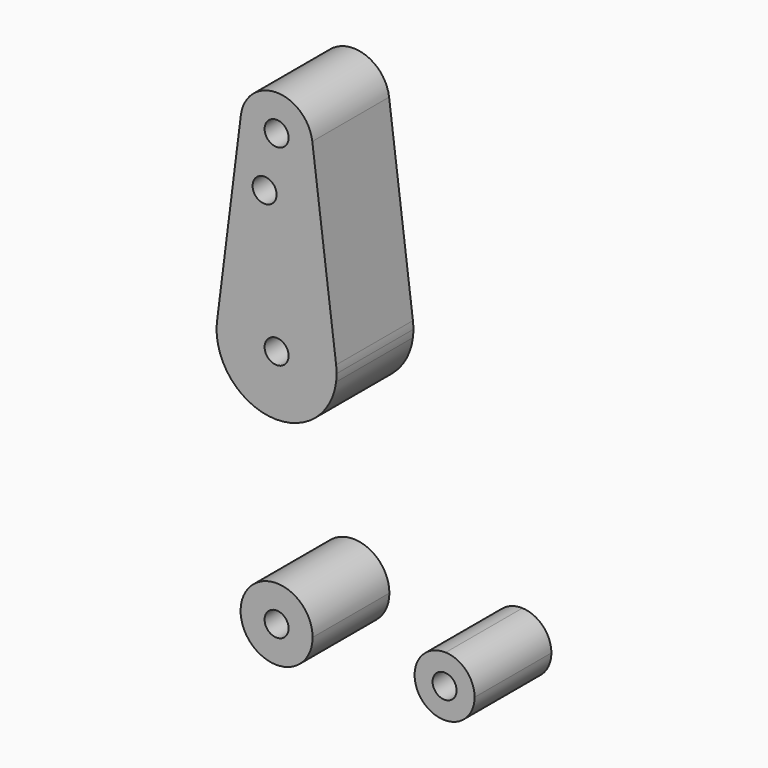
from build123d import *

# Parameters (mm, degrees)
F0_R     = 3.175
F1_DEPTH = 25.4


with BuildPart() as f1:
    # F0 (on Front) → F1 (new body)
    with BuildSketch(Plane.XZ):
        with BuildLine():
            Line((0.6773435479, -9.500885786), (0, -9.525))
            ThreePointArc((0, -9.525), (0.3388863295, -9.5189695375), (0.6773435479, -9.500885786))
        make_face()
        with BuildLine():
            ThreePointArc((0.6773435479, -9.500885786), (6.9705567315, -6.4912990883), (9.525, 0))
            ThreePointArc((9.525, 0), (-6.7351920908, 6.7351920908), (0, -9.525))
            Line((0, -9.525), (0.6773435479, -9.500885786))
        make_face()
        Circle(F0_R, mode=Mode.SUBTRACT)
    extrude(amount=F1_DEPTH)


with BuildPart() as f1b:
    # F0 (on Front) → F1, piece 2 (new body)
    with BuildSketch(Plane.XZ):
        with BuildLine():
            ThreePointArc((44.7324052746, 7.9324746146), (36.5125, 0), (44.7324052746, -7.9324746146))
            ThreePointArc((44.7324052746, -7.9324746146), (50.1616327839, -5.5119104847), (52.3875, 0))
            ThreePointArc((52.3875, 0), (50.1616327839, 5.5119104847), (44.7324052746, 7.9324746146))
        make_face()
        with Locations((44.45, 0)):
            Circle(F0_R, mode=Mode.SUBTRACT)
    extrude(amount=F1_DEPTH)


with BuildPart() as f1c:
    # F0 (on Front) → F1, piece 3 (new body)
    with BuildSketch(Plane.XZ):
        with BuildLine():
            ThreePointArc((-15.7954255641, 61.9125), (-0.1997054867, 47.6262561845), (15.7504882737, 61.515625))
            ThreePointArc((15.7504882737, 61.515625), (15.8438414904, 62.5058612634), (15.875, 63.5))
            ThreePointArc((15.875, 63.5), (15.8438414904, 64.4941387366), (15.7504882737, 65.484375))
            ThreePointArc((15.7504882737, 65.484375), (0, 79.375), (-15.7504882737, 65.484375))
            ThreePointArc((-15.7504882737, 65.484375), (-15.8737438155, 63.6997054867), (-15.7954255641, 61.9125))
        make_face()
        with Locations((0, 63.5)):
            Circle(F0_R, mode=Mode.SUBTRACT)
        with BuildLine():
            Line((-9.4502929642, 115.490625), (-15.7504882737, 65.484375))
            ThreePointArc((-15.7504882737, 65.484375), (0, 79.375), (15.7504882737, 65.484375))
            Line((15.7504882737, 65.484375), (9.4502929642, 115.490625))
            ThreePointArc((9.4502929642, 115.490625), (9.5063048942, 114.896483242), (9.525, 114.3))
            ThreePointArc((9.525, 114.3), (-0.596483242, 104.7936951058), (-9.4502929642, 115.490625))
        make_face()
        with Locations((-3.175, 100.0252)):
            Circle(F0_R, mode=Mode.SUBTRACT)
        with BuildLine():
            ThreePointArc((9.4502929642, 115.490625), (0, 123.825), (-9.4502929642, 115.490625))
            ThreePointArc((-9.4502929642, 115.490625), (-0.596483242, 104.7936951058), (9.525, 114.3))
            ThreePointArc((9.525, 114.3), (9.5063048942, 114.896483242), (9.4502929642, 115.490625))
        make_face()
        with Locations((0, 114.3)):
            Circle(F0_R, mode=Mode.SUBTRACT)
    extrude(amount=F1_DEPTH)


solid = Compound([f1.part, f1b.part, f1c.part])
